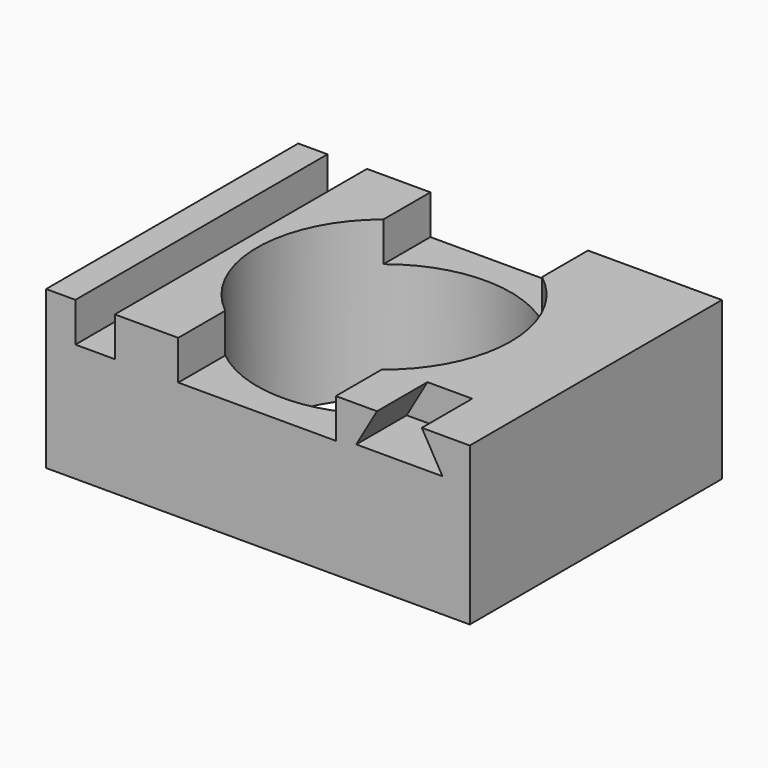
from build123d import *

# Parameters (mm, degrees)
F0_W     = 68.28428
F0_H     = 50.8
F0_R     = 20.461858
F1_DEPTH = 25.4
F2_W     = 6.35
F2_H     = 50.8
F3_DEPTH = 6.35
F5_DEPTH = 10.16


with BuildPart() as f1:
    # F0 (on Top) → F1 (new body)
    with BuildSketch(Plane.XY):
        Rectangle(F0_W, F0_H)
        Circle(F0_R, mode=Mode.SUBTRACT)
    extrude(amount=F1_DEPTH)

    # F2 (on face) → F3 (cut)
    with BuildSketch(Plane.XY.offset(25.4)):
        with Locations((-26.241574, 0)):
            Rectangle(F2_W, F2_H)
        with BuildLine():
            Line((12.558249, 25.4), (-12.841751, 25.4))
            Line((-12.841751, 25.4), (-12.841751, 15.930381))
            ThreePointArc((-12.841751, 15.930381), (-0.180792, 20.461059), (12.558249, 16.154813))
            Line((12.558249, 16.154813), (12.558249, 25.4))
        make_face()
        with BuildLine():
            Line((-12.841751, -15.930381), (-12.841751, -25.4))
            Line((-12.841751, -25.4), (12.558249, -25.4))
            Line((12.558249, -25.4), (12.558249, -16.154813))
            ThreePointArc((12.558249, -16.154813), (-0.180792, -20.461059), (-12.841751, -15.930381))
        make_face()
    extrude(amount=-F3_DEPTH, mode=Mode.SUBTRACT)

    # F4 (on face) → F5 (cut)
    with BuildSketch(Plane.XZ.offset(25.4)):
        Polygon((26.409702, 25.4), (19.189334, 25.4), (15.844161, 19.60599), (29.754875, 19.60599), align=None)
    extrude(amount=-F5_DEPTH, mode=Mode.SUBTRACT)


solid = f1.part
